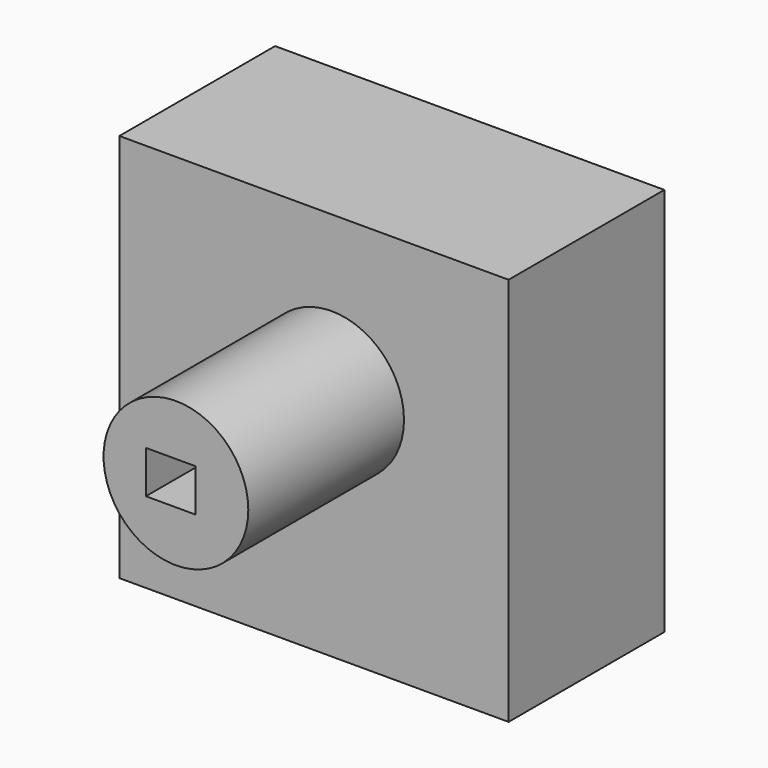
from build123d import *

# Parameters (mm, degrees)
F0_W     = 50.8
F0_H     = 50.8
F0_W_2   = 6.462844
F0_H_2   = 5.558045
F1_DEPTH = 25.4
F2_R     = 9.444234
F3_DEPTH = 25.4
F4_DEPTH = 50.801


with BuildPart() as f1:
    # F0 (on Front) → F1 (new body)
    with BuildSketch(Plane.XZ):
        with Locations((-19.839903, -2.06811)):
            Rectangle(F0_W, F0_H)
        with Locations((-18.225218, 2.779022)):
            Rectangle(F0_W_2, F0_H_2, mode=Mode.SUBTRACT)
    extrude(amount=F1_DEPTH)

    # F2 (on face) → F3 (join)
    with BuildSketch(Plane.XZ.offset(25.4)):
        with Locations((-17.536797, 2.779023)):
            Circle(F2_R)
    extrude(amount=F3_DEPTH)

    # F0 (on Front) → F4 (cut, through all)
    with BuildSketch(Plane.XZ):
        with Locations((-18.225218, 2.779022)):
            Rectangle(F0_W_2, F0_H_2)
    extrude(amount=F4_DEPTH, mode=Mode.SUBTRACT)


solid = f1.part
